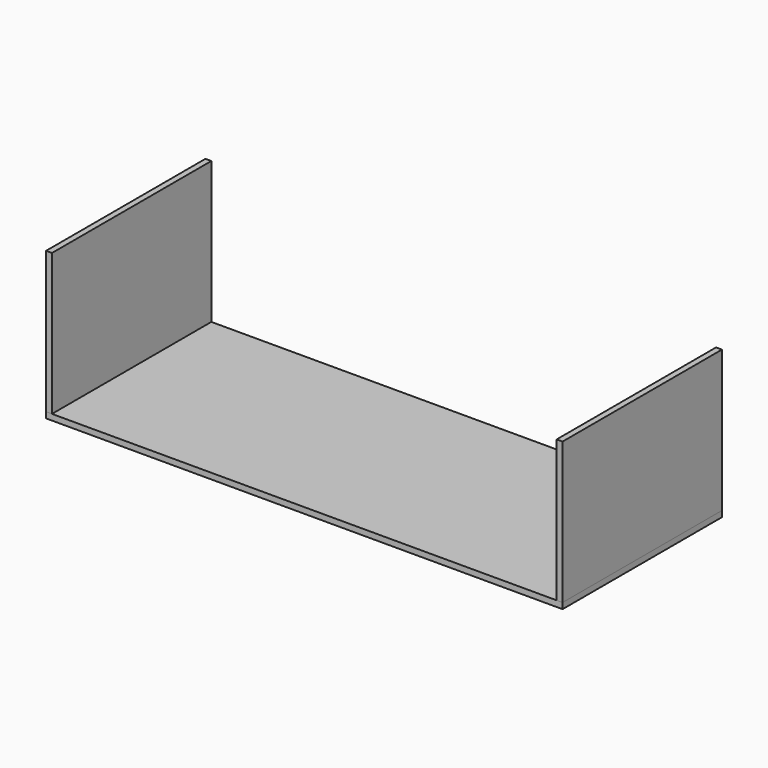
from build123d import *

# Parameters (mm, degrees)
F0_W     = 0.8
F0_H     = 27
F1_DEPTH = 20
F0_W_2   = 68.4
F2_DEPTH = 0.8


with BuildPart() as f1:
    # F0 (on Top) → F1 (new body)
    with BuildSketch(Plane.XY):
        with Locations((-34.6, 0)):
            Rectangle(F0_W, F0_H)
        with Locations((34.6, 0)):
            Rectangle(F0_W, F0_H)
    extrude(amount=F1_DEPTH)


with BuildPart() as f2:
    # F0 (on Top) → F2 (new body)
    with BuildSketch(Plane.XY):
        with Locations((-34.6, 0)):
            Rectangle(F0_W, F0_H)
        with Locations((34.6, 0)):
            Rectangle(F0_W, F0_H)
        Rectangle(F0_W_2, F0_H)
    extrude(amount=F2_DEPTH)


solid = Compound([f1.part, f2.part])
